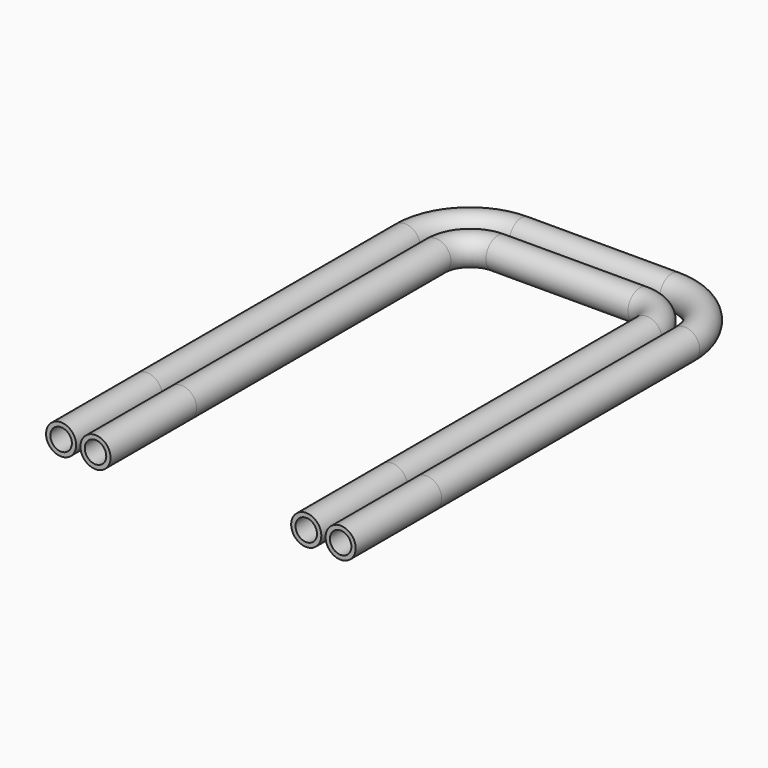
from build123d import *

# Parameters (mm, degrees)
F1_R     = 7
F3_R     = 7
F3_R_2   = 5
F4_DEPTH = 50
F5_R     = 7
F8_R     = 7
F8_R_2   = 5
F9_DEPTH = 50


with BuildPart() as f2:
    # F2: sweep along a path in F0
    with BuildLine(Plane.XY) as f2_path:
        Line((0, 0), (0, 150))
        ThreePointArc((0, 150), (8.7867965644, 171.2132034356), (30, 180))
        Line((30, 180), (100, 180))
        ThreePointArc((100, 180), (121.2132034356, 171.2132034356), (130, 150))
        Line((130, 150), (130, 0))
    # F1 (on Front) → F2 (sweep)
    with BuildSketch(Plane.XZ):
        Circle(F1_R)
    sweep(path=f2_path.line)

    # F3 (on face) → F4 (join)
    with BuildSketch(Plane.XZ):
        Circle(F3_R)
        Circle(F3_R_2, mode=Mode.SUBTRACT)
        with Locations((130, 0)):
            Circle(F3_R)
        with Locations((130, 0)):
            Circle(F3_R_2, mode=Mode.SUBTRACT)
    extrude(amount=F4_DEPTH)


with BuildPart() as f7:
    # F7: sweep along a path in F6
    with BuildLine(Plane.XY) as f7_path:
        Line((16, 0), (16, 147.9161937333))
        ThreePointArc((16, 147.9161937333), (20.6805061796, 159.224113951), (31.9836324563, 163.9161853616))
        Line((31.9836324563, 163.9161853616), (97.9836324563, 163.9837015148))
        ThreePointArc((97.9836324563, 163.9837015148), (109.3079202177, 159.303203707), (114, 147.9837098866))
        Line((114, 147.9837098866), (114, 0))
    # F5 (on Front) → F7 (sweep)
    with BuildSketch(Plane.XZ):
        with Locations((16, 0)):
            Circle(F5_R)
    sweep(path=f7_path.line)

    # F8 (on face) → F9 (join)
    with BuildSketch(Plane.XZ):
        with Locations((16, 0)):
            Circle(F8_R)
        with Locations((16, 0)):
            Circle(F8_R_2, mode=Mode.SUBTRACT)
        with Locations((114, 0)):
            Circle(F8_R)
        with Locations((114, 0)):
            Circle(F8_R_2, mode=Mode.SUBTRACT)
    extrude(amount=F9_DEPTH)


solid = Compound([f2.part, f7.part])
